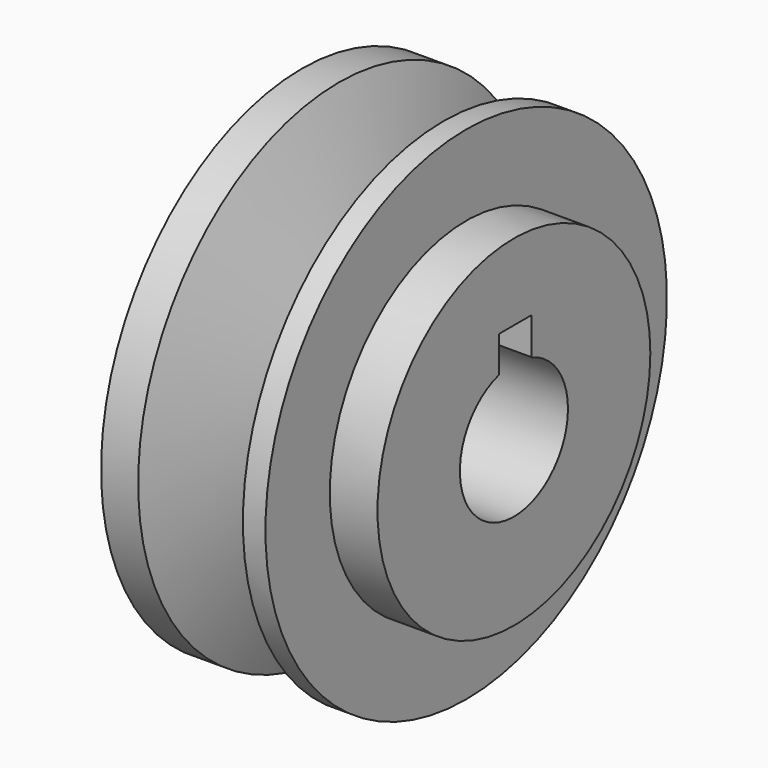
from build123d import *

# Parameters (mm, degrees)
F2_R     = 19.8501
F3_DEPTH = 5.55625
F5_DEPTH = 254


with BuildPart() as f1:
    # F0 (on Front) → F1 (revolve)
    with BuildSketch(Plane.XZ):
        Polygon((1.00091, 0), (0, 0), (-2.445169, 0), (-6.818129, 12.7), (-11.137133, 12.7), (-11.137133, 10.324578), (-9.085405, 10.324578), (-8.059541, 0), (-8.059541, -16.51), (7.999178, -16.51), (7.999178, 0), (7.999178, 12.7), (5.373871, 12.7), align=None)
    revolve(axis=Axis((-0.030182, 0, -16.51), (1, 0, 0)))

    # F2 (on face) → F3 (join)
    with BuildSketch(Plane.YZ.offset(7.999178)):
        with Locations((0, -16.51)):
            Circle(F2_R)
    extrude(amount=F3_DEPTH)

    # F4 (on face) → F5 (cut)
    with BuildSketch(Plane.YZ.offset(13.555428)):
        with BuildLine():
            Line((-2.197634, -5.575972), (-2.197634, -9.778679))
            ThreePointArc((-2.197634, -9.778679), (-0.206109, -25.187333), (2.590266, -9.904236))
            Line((2.590266, -9.904236), (2.590266, -5.575972))
            Line((2.590266, -5.575972), (-2.197634, -5.575972))
        make_face()
    extrude(amount=-F5_DEPTH, mode=Mode.SUBTRACT)


solid = f1.part
